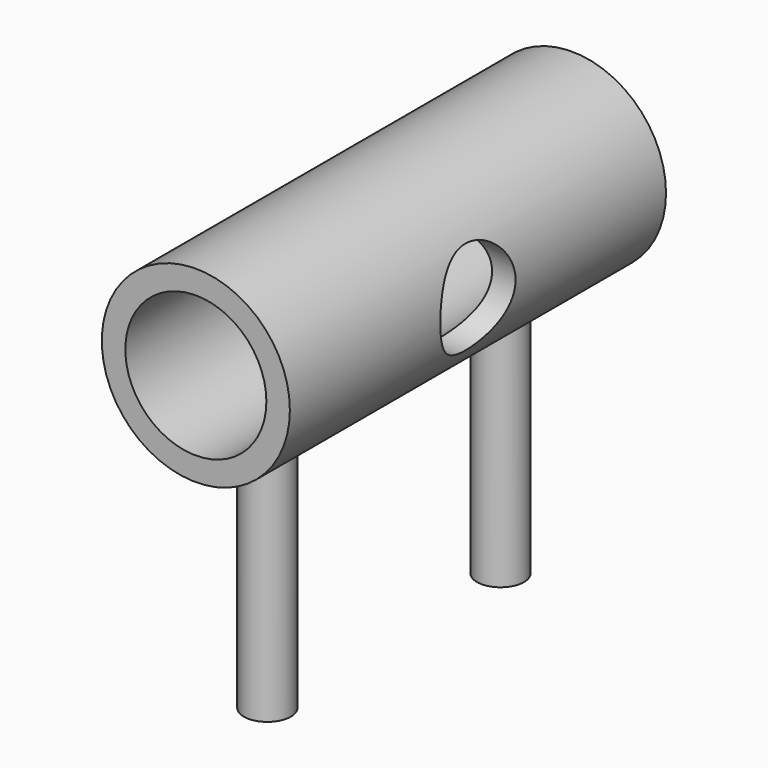
from build123d import *

# Parameters (mm, degrees)
F0_R          = 20
F0_R_2        = 15
F1_DEPTH      = 50
F3_R          = 5
F4_DEPTH      = 50
F4_DEPTH_BACK = 4
F6_R          = 10
F7_DEPTH      = 50


with BuildPart() as f1:
    # F0 (on Front) → F1 (new body, symmetric)
    with BuildSketch(Plane.XZ):
        Circle(F0_R)
        Circle(F0_R_2, mode=Mode.SUBTRACT)
    extrude(amount=F1_DEPTH, both=True)

    # F3 (on offset) → F4 (join, two sides)
    with BuildSketch(Plane.XY.offset(-20)) as f4_sk:
        with Locations((0, 30.9999954911)):
            Circle(F3_R)
        with Locations((0, -30.9999954911)):
            Circle(F3_R)
    extrude(amount=-F4_DEPTH)
    extrude(f4_sk.sketch, amount=F4_DEPTH_BACK)

    # F6 (on offset) → F7 (cut)
    with BuildSketch(Plane.YZ.offset(20)):
        Circle(F6_R)
    extrude(amount=-F7_DEPTH, mode=Mode.SUBTRACT)


solid = f1.part
